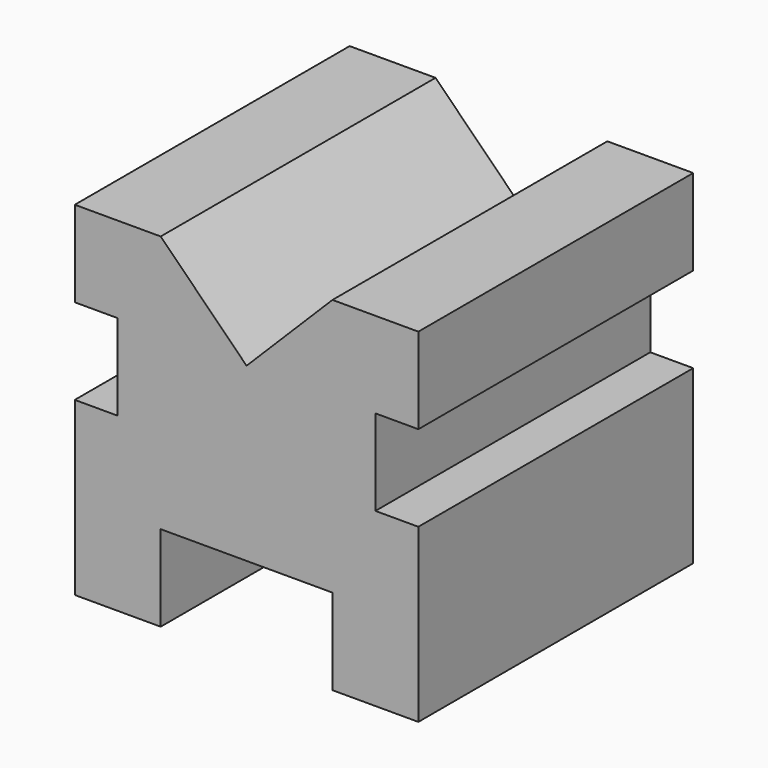
from build123d import *

# Parameters (mm, degrees)
F0_W     = 101.6
F0_H     = 101.6
F1_DEPTH = 101.6
F3_DEPTH = 101.6
F4_W     = 12.7
F4_H     = 25.4
F5_DEPTH = 101.6
F6_W     = 50.8
F6_H     = 25.4
F7_DEPTH = 101.6


with BuildPart() as f1:
    # F0 (on Front) → F1 (new body)
    with BuildSketch(Plane.XZ):
        with Locations((2.286971, 19.177855)):
            Rectangle(F0_W, F0_H)
    extrude(amount=F1_DEPTH)

    # F2 (on face) → F3 (cut)
    with BuildSketch(Plane.XZ.offset(101.6)):
        Polygon((27.686971, 69.977855), (-23.113029, 69.977855), (2.286971, 44.577855), align=None)
    extrude(amount=-F3_DEPTH, mode=Mode.SUBTRACT)

    # F4 (on face) → F5 (cut)
    with BuildSketch(Plane.XZ.offset(101.6)):
        with Locations((-42.163029, 31.877855)):
            Rectangle(F4_W, F4_H)
        with Locations((46.736971, 31.877855)):
            Rectangle(F4_W, F4_H)
    extrude(amount=-F5_DEPTH, mode=Mode.SUBTRACT)

    # F6 (on face) → F7 (cut)
    with BuildSketch(Plane.XZ.offset(101.6)):
        with Locations((2.286971, -18.922145)):
            Rectangle(F6_W, F6_H)
    extrude(amount=-F7_DEPTH, mode=Mode.SUBTRACT)


solid = f1.part
